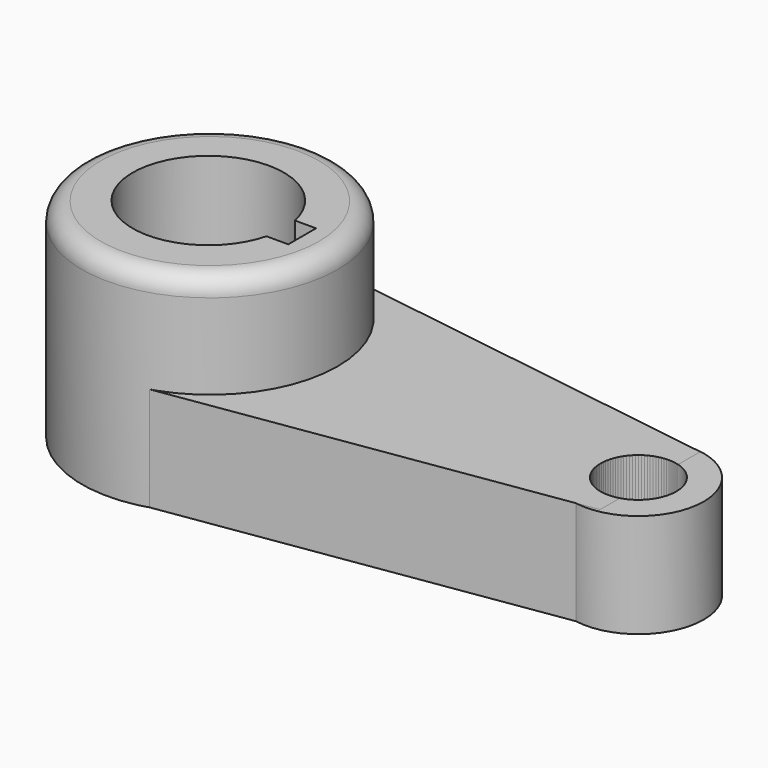
from build123d import *

# Parameters (mm, degrees)
F0_R      = 15.620469
F2_DEPTH  = 25.4
F0_R_2    = 7.981201
F3_DEPTH  = 12.7
F4_DEPTH  = 12.7
F5_R      = 4.631858
F6_DEPTH  = 12.7
F7_R      = 9.238459
F8_DEPTH  = 25.4
F9_W      = 5.346291
F9_H      = 4.240161
F10_DEPTH = 25.4
F11_R     = 2.286


with BuildPart() as f2:
    # F0 (on Top) → F2 (new body)
    with BuildSketch(Plane.XY):
        with Locations((-34.750886, 0)):
            Circle(F0_R)
    extrude(amount=F2_DEPTH)


with BuildPart() as f3:
    # F0 (on Top) → F3 (new body)
    with BuildSketch(Plane.XY):
        with Locations((17.605888, 0)):
            Circle(F0_R_2)
    extrude(amount=F3_DEPTH)


with BuildPart() as f4:
    # F1 (on Top) → F4 (new body)
    with BuildSketch(Plane.XY):
        Polygon((18.896371, 7.835081), (-34.382179, 15.762338), (-34.566533, -15.577984), (18.896371, -7.466371), align=None)
    extrude(amount=F4_DEPTH)


with BuildPart() as f6_tool:
    # F5 (on Top) → F6 (new body)
    with BuildSketch(Plane.XY):
        with Locations((17.605888, 0)):
            Circle(F5_R)
    extrude(amount=F6_DEPTH)


with BuildPart() as f3_1:
    add(f3.part)

    # F6: cut by f6_tool
    add(f6_tool.part, mode=Mode.SUBTRACT)


with BuildPart() as f4_1:
    add(f4.part)

    # F6: cut by f6_tool
    add(f6_tool.part, mode=Mode.SUBTRACT)


with BuildPart() as f8_tool:
    # F7 (on Top) → F8 (new body)
    with BuildSketch(Plane.XY):
        with Locations((-34.935243, 0)):
            Circle(F7_R)
    extrude(amount=F8_DEPTH)


with BuildPart() as f2_1:
    add(f2.part)

    # F8: cut by f8_tool
    add(f8_tool.part, mode=Mode.SUBTRACT)


with BuildPart() as f4_2:
    add(f4_1.part)

    # F8: cut by f8_tool
    add(f8_tool.part, mode=Mode.SUBTRACT)


with BuildPart() as f10_tool:
    # F9 (on Top) → F10 (new body)
    with BuildSketch(Plane.XY):
        with Locations((-25.994032, -0.184354)):
            Rectangle(F9_W, F9_H)
    extrude(amount=F10_DEPTH)


with BuildPart() as f2_2:
    add(f2_1.part)

    # F10: cut by f10_tool
    add(f10_tool.part, mode=Mode.SUBTRACT)

    # F11
    f11_edges = [f2_2.edges().sort_by_distance(p)[0] for p in [
        (-50.371355, 0, 25.4),
    ]]
    fillet(f11_edges, radius=F11_R)


with BuildPart() as f4_3:
    add(f4_2.part)

    # F10: cut by f10_tool
    add(f10_tool.part, mode=Mode.SUBTRACT)


solid = Compound([f3_1.part, f2_2.part, f4_3.part])
